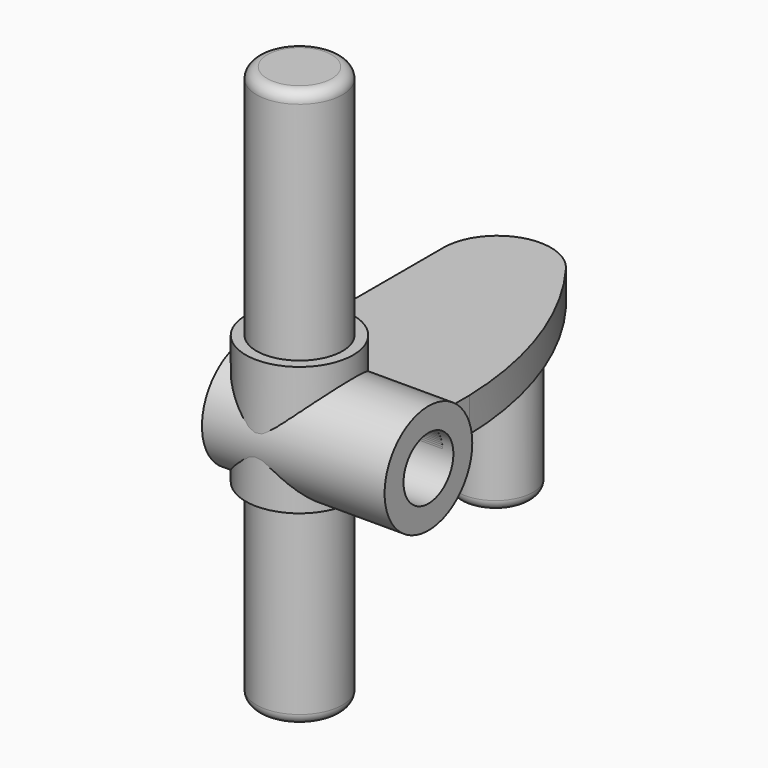
from build123d import *

# Parameters (mm, degrees)
F0_R           = 2.55
F1_DEPTH       = 8.5
F3_DEPTH       = 1.6
F4_DEPTH       = 1.6
F5_R           = 1.75
F6_DEPTH       = 7.5
F7_R           = 2.5
F8_DEPTH       = 3.5
F8_DEPTH_BACK  = 2.5
F9_R           = 2
F10_DEPTH      = 14.5
F10_DEPTH_BACK = 11.5
F11_D          = 2.9
F11_2_D        = 2.9
F11_3_D        = 2.9
F11_4_D        = 2.9
F11_5_D        = 2.9
F12_R          = 0.5
F12_2_R        = 0.5


with BuildPart() as f1:
    # F0 (on Right) → F1 (new body)
    with BuildSketch(Plane.YZ):
        Circle(F0_R)
    extrude(amount=F1_DEPTH)

    # F11 (through all)
    with Locations(Plane(origin=(0, 0, 0), x_dir=(0, 1, 0), z_dir=(-1, 0, 0))):
        with Locations((0, 0)):
            Hole(F11_D / 2)


with BuildPart() as f3:
    # F2 (on Top) → F3 (new body)
    with BuildSketch(Plane.XY):
        with BuildLine():
            Line((0, 11.5), (0, 0))
            Line((0, 0), (8, 0))
            Line((8, 0), (8, 3))
            ThreePointArc((8, 3), (7.023141, 8.270599), (4.5, 13))
            ThreePointArc((4.5, 13), (1.709431, 13.871708), (0, 11.5))
        make_face()
    extrude(amount=F3_DEPTH)

    # F11#2 (through all)
    with Locations(Plane(origin=(0, 0, 0), x_dir=(0, 1, 0), z_dir=(-1, 0, 0))):
        with Locations((0, 0)):
            Hole(F11_2_D / 2)


with BuildPart() as f4:
    # F2 (on Top) → F4 (new body)
    with BuildSketch(Plane.XY):
        with BuildLine():
            Line((0, 11.5), (0, 0))
            Line((0, 0), (8, 0))
            Line((8, 0), (8, 3))
            ThreePointArc((8, 3), (7.023141, 8.270599), (4.5, 13))
            ThreePointArc((4.5, 13), (1.709431, 13.871708), (0, 11.5))
        make_face()
    extrude(amount=F4_DEPTH)

    # F11#3 (through all)
    with Locations(Plane(origin=(0, 0, 0), x_dir=(0, 1, 0), z_dir=(-1, 0, 0))):
        with Locations((0, 0)):
            Hole(F11_3_D / 2)


with BuildPart() as f6:
    # F5 (on Top) → F6 (new body)
    with BuildSketch(Plane.XY):
        with Locations((2.5, 11.4)):
            Circle(F5_R)
    extrude(amount=-F6_DEPTH)

    # F12#2
    f12_2_edges = [f6.edges().sort_by_distance(p)[0] for p in [
        (0.75, 11.4, -7.5),
    ]]
    fillet(f12_2_edges, radius=F12_2_R)


with BuildPart() as f8:
    # F7 (on Top) → F8 (new body, two sides)
    with BuildSketch(Plane.XY) as f8_sk:
        with Locations((2.5, 0)):
            Circle(F7_R)
    extrude(amount=F8_DEPTH)
    extrude(f8_sk.sketch, amount=-F8_DEPTH_BACK)

    # F11#4 (through all)
    with Locations(Plane(origin=(0, 0, 0), x_dir=(0, 1, 0), z_dir=(-1, 0, 0))):
        with Locations((0, 0)):
            Hole(F11_4_D / 2)


with BuildPart() as f10:
    # F9 (on Top) → F10 (new body, two sides)
    with BuildSketch(Plane.XY) as f10_sk:
        with Locations((2.5, 0)):
            Circle(F9_R)
    extrude(amount=F10_DEPTH)
    extrude(f10_sk.sketch, amount=-F10_DEPTH_BACK)

    # F11#5 (through all)
    with Locations(Plane(origin=(0, 0, 0), x_dir=(0, 1, 0), z_dir=(-1, 0, 0))):
        with Locations((0, 0)):
            Hole(F11_5_D / 2)

    # F12
    f12_edges = [f10.edges().sort_by_distance(p)[0] for p in [
        (0.5, 0, 14.5),
        (0.5, 0, -11.5),
    ]]
    fillet(f12_edges, radius=F12_R)


solid = Compound([f1.part, f3.part, f4.part, f6.part, f8.part, f10.part])
